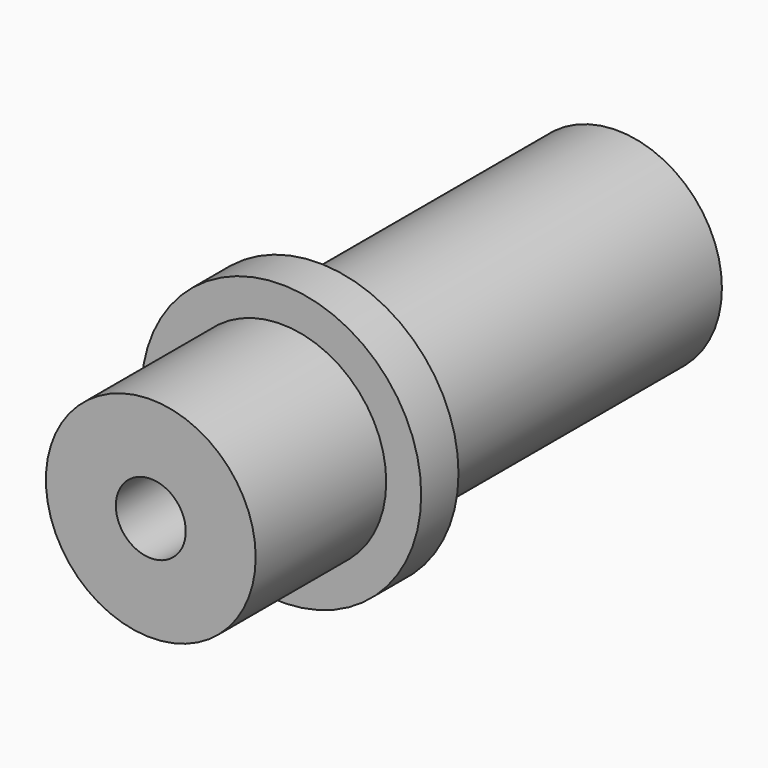
from build123d import *

# Parameters (mm, degrees)
F0_R           = 5.625
F1_DEPTH       = 31.25
F3_R           = 7.5
F4_DEPTH       = 2.5
F6_D           = 2.5
F6_DEPTH       = 40
F6_CBORE_D     = 3.75
F6_CBORE_DEPTH = 21.75


with BuildPart() as f1:
    # F0 (on Front) → F1 (new body)
    with BuildSketch(Plane.XZ):
        Circle(F0_R)
    extrude(amount=F1_DEPTH)

    # F3 (on offset) → F4 (join)
    with BuildSketch(Plane.XZ.offset(20)):
        Circle(F3_R)
    extrude(amount=F4_DEPTH)

    # F6
    with Locations(Plane.XZ.offset(31.25)):
        with Locations((0, 0)):
            CounterBoreHole(F6_D / 2, F6_CBORE_D / 2, F6_CBORE_DEPTH, depth=F6_DEPTH)


solid = f1.part
